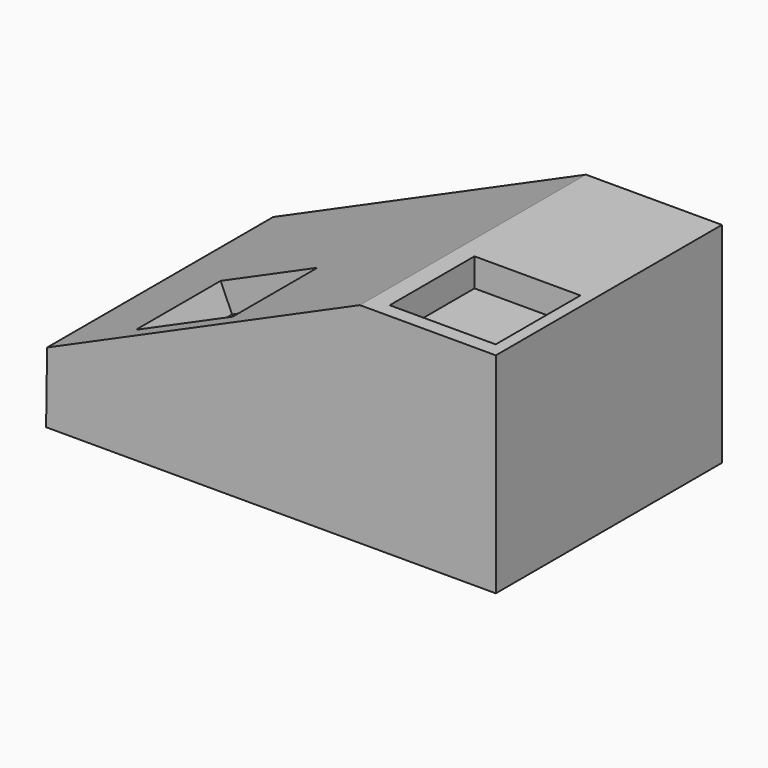
from build123d import *

# Parameters (mm, degrees)
F1_DEPTH = 80
F2_W     = 30
F2_H     = 30
F3_DEPTH = 8
F4_W     = 30
F4_H     = 30
F5_DEPTH = 8


with BuildPart() as f1:
    # F0 (on Front) → F1 (new body)
    with BuildSketch(Plane.XZ):
        Polygon((-62.069241, -21.991899), (-62.35861, -41.958228), (64.962916, -41.958228), (64.962916, 17.362025), (26.477087, 17.362025), align=None)
    extrude(amount=F1_DEPTH)

    # F2 (on face) → F3 (cut)
    with BuildSketch(Plane.XY.offset(17.362025)):
        with Locations((46.655876, -60.924847)):
            Rectangle(F2_W, F2_H)
    extrude(amount=-F3_DEPTH, mode=Mode.SUBTRACT)

    # F4 (on face) → F5 (cut)
    with BuildSketch(Plane(origin=(-2.076283, 0, 4.671638), x_dir=(0.913812, 0, 0.406138), z_dir=(-0.406138, 0, 0.913812))):
        with Locations((-27.1411, -60.458847)):
            Rectangle(F4_W, F4_H)
    extrude(amount=-F5_DEPTH, mode=Mode.SUBTRACT)


solid = f1.part
